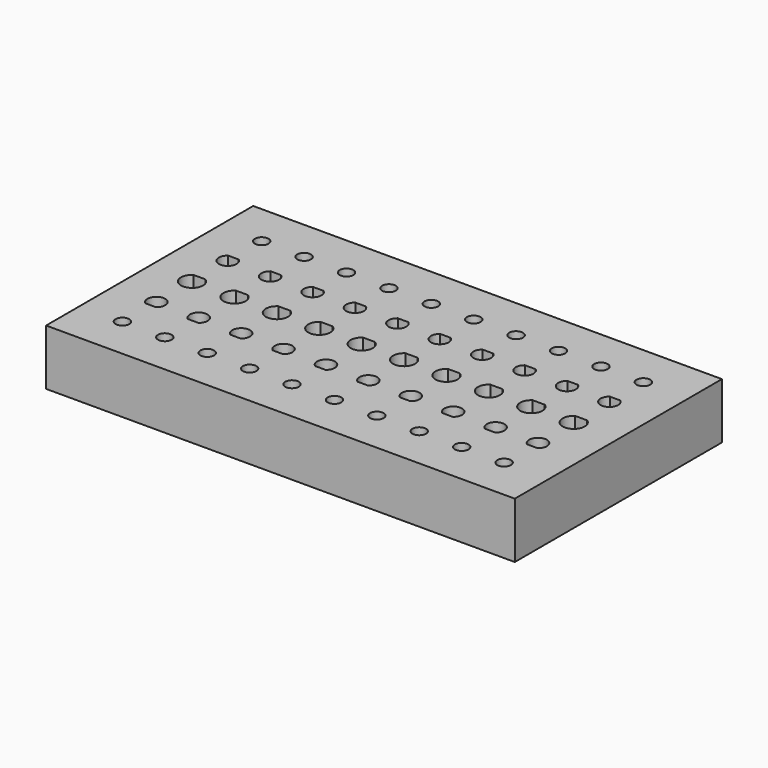
from build123d import *

# Parameters (mm, degrees)
F1_W     = 210
F1_H     = 116
F1_R     = 3.05
F2_DEPTH = 25


with BuildPart() as f2:
    # F1 (on face) → F2 (new body)
    with BuildSketch(Plane.XY):
        with Locations((105, 58)):
            Rectangle(F1_W, F1_H)
        with Locations((19, 19)):
            Circle(F1_R, mode=Mode.SUBTRACT)
        with Locations((38, 19)):
            Circle(F1_R, mode=Mode.SUBTRACT)
        with Locations((57, 19)):
            Circle(F1_R, mode=Mode.SUBTRACT)
        with Locations((76, 19)):
            Circle(F1_R, mode=Mode.SUBTRACT)
        with Locations((95, 19)):
            Circle(F1_R, mode=Mode.SUBTRACT)
        with BuildLine():
            Line((21.362954, 34.834728), (16.637046, 34.834728))
            ThreePointArc((16.637046, 34.834728), (19, 41.95), (21.362954, 34.834728))
        make_face(mode=Mode.SUBTRACT)
        with BuildLine():
            Line((40.362954, 34.834728), (35.637046, 34.834728))
            ThreePointArc((35.637046, 34.834728), (38, 41.95), (40.362954, 34.834728))
        make_face(mode=Mode.SUBTRACT)
        with BuildLine():
            ThreePointArc((21.698148, 62.15), (19, 53.05), (16.301852, 62.15))
            Line((16.301852, 62.15), (21.698148, 62.15))
        make_face(mode=Mode.SUBTRACT)
        with BuildLine():
            ThreePointArc((40.698148, 62.15), (38, 53.05), (35.301852, 62.15))
            Line((35.301852, 62.15), (40.698148, 62.15))
        make_face(mode=Mode.SUBTRACT)
        with BuildLine():
            Line((59.362954, 34.834728), (54.637046, 34.834728))
            ThreePointArc((54.637046, 34.834728), (57, 41.95), (59.362954, 34.834728))
        make_face(mode=Mode.SUBTRACT)
        with BuildLine():
            Line((78.362954, 34.834728), (73.637046, 34.834728))
            ThreePointArc((73.637046, 34.834728), (76, 41.95), (78.362954, 34.834728))
        make_face(mode=Mode.SUBTRACT)
        with BuildLine():
            Line((97.362954, 34.834728), (92.637046, 34.834728))
            ThreePointArc((92.637046, 34.834728), (95, 41.95), (97.362954, 34.834728))
        make_face(mode=Mode.SUBTRACT)
        with BuildLine():
            ThreePointArc((59.698148, 62.15), (57, 53.05), (54.301852, 62.15))
            Line((54.301852, 62.15), (59.698148, 62.15))
        make_face(mode=Mode.SUBTRACT)
        with BuildLine():
            ThreePointArc((78.698148, 62.15), (76, 53.05), (73.301852, 62.15))
            Line((73.301852, 62.15), (78.698148, 62.15))
        make_face(mode=Mode.SUBTRACT)
        with BuildLine():
            ThreePointArc((97.698148, 62.15), (95, 53.05), (92.301852, 62.15))
            Line((92.301852, 62.15), (97.698148, 62.15))
        make_face(mode=Mode.SUBTRACT)
        with Locations((114, 19)):
            Circle(F1_R, mode=Mode.SUBTRACT)
        with Locations((133, 19)):
            Circle(F1_R, mode=Mode.SUBTRACT)
        with Locations((152, 19)):
            Circle(F1_R, mode=Mode.SUBTRACT)
        with Locations((171, 19)):
            Circle(F1_R, mode=Mode.SUBTRACT)
        with Locations((190, 19)):
            Circle(F1_R, mode=Mode.SUBTRACT)
        with BuildLine():
            Line((116.362954, 34.834728), (111.637046, 34.834728))
            ThreePointArc((111.637046, 34.834728), (114, 41.95), (116.362954, 34.834728))
        make_face(mode=Mode.SUBTRACT)
        with BuildLine():
            Line((135.362954, 34.834728), (130.637046, 34.834728))
            ThreePointArc((130.637046, 34.834728), (133, 41.95), (135.362954, 34.834728))
        make_face(mode=Mode.SUBTRACT)
        with BuildLine():
            Line((154.362954, 34.834728), (149.637046, 34.834728))
            ThreePointArc((149.637046, 34.834728), (152, 41.95), (154.362954, 34.834728))
        make_face(mode=Mode.SUBTRACT)
        with BuildLine():
            ThreePointArc((116.698148, 62.15), (114, 53.05), (111.301852, 62.15))
            Line((111.301852, 62.15), (116.698148, 62.15))
        make_face(mode=Mode.SUBTRACT)
        with BuildLine():
            ThreePointArc((135.698148, 62.15), (133, 53.05), (130.301852, 62.15))
            Line((130.301852, 62.15), (135.698148, 62.15))
        make_face(mode=Mode.SUBTRACT)
        with BuildLine():
            ThreePointArc((154.698148, 62.15), (152, 53.05), (149.301852, 62.15))
            Line((149.301852, 62.15), (154.698148, 62.15))
        make_face(mode=Mode.SUBTRACT)
        with BuildLine():
            Line((173.362954, 34.834728), (168.637046, 34.834728))
            ThreePointArc((168.637046, 34.834728), (171, 41.95), (173.362954, 34.834728))
        make_face(mode=Mode.SUBTRACT)
        with BuildLine():
            Line((192.362954, 34.834728), (187.637046, 34.834728))
            ThreePointArc((187.637046, 34.834728), (190, 41.95), (192.362954, 34.834728))
        make_face(mode=Mode.SUBTRACT)
        with BuildLine():
            ThreePointArc((173.698148, 62.15), (171, 53.05), (168.301852, 62.15))
            Line((168.301852, 62.15), (173.698148, 62.15))
        make_face(mode=Mode.SUBTRACT)
        with BuildLine():
            ThreePointArc((192.698148, 62.15), (190, 53.05), (187.301852, 62.15))
            Line((187.301852, 62.15), (192.698148, 62.15))
        make_face(mode=Mode.SUBTRACT)
        with BuildLine():
            ThreePointArc((21.362954, 81.165272), (19, 74.05), (16.637046, 81.165272))
            Line((16.637046, 81.165272), (21.362954, 81.165272))
        make_face(mode=Mode.SUBTRACT)
        with BuildLine():
            ThreePointArc((40.362954, 81.165272), (38, 74.05), (35.637046, 81.165272))
            Line((35.637046, 81.165272), (40.362954, 81.165272))
        make_face(mode=Mode.SUBTRACT)
        with BuildLine():
            ThreePointArc((59.362954, 81.165272), (57, 74.05), (54.637046, 81.165272))
            Line((54.637046, 81.165272), (59.362954, 81.165272))
        make_face(mode=Mode.SUBTRACT)
        with BuildLine():
            ThreePointArc((78.362954, 81.165272), (76, 74.05), (73.637046, 81.165272))
            Line((73.637046, 81.165272), (78.362954, 81.165272))
        make_face(mode=Mode.SUBTRACT)
        with BuildLine():
            ThreePointArc((97.362954, 81.165272), (95, 74.05), (92.637046, 81.165272))
            Line((92.637046, 81.165272), (97.362954, 81.165272))
        make_face(mode=Mode.SUBTRACT)
        with Locations((19, 97)):
            Circle(F1_R, mode=Mode.SUBTRACT)
        with Locations((38, 97)):
            Circle(F1_R, mode=Mode.SUBTRACT)
        with Locations((57, 97)):
            Circle(F1_R, mode=Mode.SUBTRACT)
        with Locations((76, 97)):
            Circle(F1_R, mode=Mode.SUBTRACT)
        with Locations((95, 97)):
            Circle(F1_R, mode=Mode.SUBTRACT)
        with BuildLine():
            ThreePointArc((116.362954, 81.165272), (114, 74.05), (111.637046, 81.165272))
            Line((111.637046, 81.165272), (116.362954, 81.165272))
        make_face(mode=Mode.SUBTRACT)
        with BuildLine():
            ThreePointArc((135.362954, 81.165272), (133, 74.05), (130.637046, 81.165272))
            Line((130.637046, 81.165272), (135.362954, 81.165272))
        make_face(mode=Mode.SUBTRACT)
        with BuildLine():
            ThreePointArc((154.362954, 81.165272), (152, 74.05), (149.637046, 81.165272))
            Line((149.637046, 81.165272), (154.362954, 81.165272))
        make_face(mode=Mode.SUBTRACT)
        with BuildLine():
            ThreePointArc((173.362954, 81.165272), (171, 74.05), (168.637046, 81.165272))
            Line((168.637046, 81.165272), (173.362954, 81.165272))
        make_face(mode=Mode.SUBTRACT)
        with BuildLine():
            ThreePointArc((192.362954, 81.165272), (190, 74.05), (187.637046, 81.165272))
            Line((187.637046, 81.165272), (192.362954, 81.165272))
        make_face(mode=Mode.SUBTRACT)
        with Locations((114, 97)):
            Circle(F1_R, mode=Mode.SUBTRACT)
        with Locations((133, 97)):
            Circle(F1_R, mode=Mode.SUBTRACT)
        with Locations((152, 97)):
            Circle(F1_R, mode=Mode.SUBTRACT)
        with Locations((171, 97)):
            Circle(F1_R, mode=Mode.SUBTRACT)
        with Locations((190, 97)):
            Circle(F1_R, mode=Mode.SUBTRACT)
    extrude(amount=F2_DEPTH)


solid = f2.part
